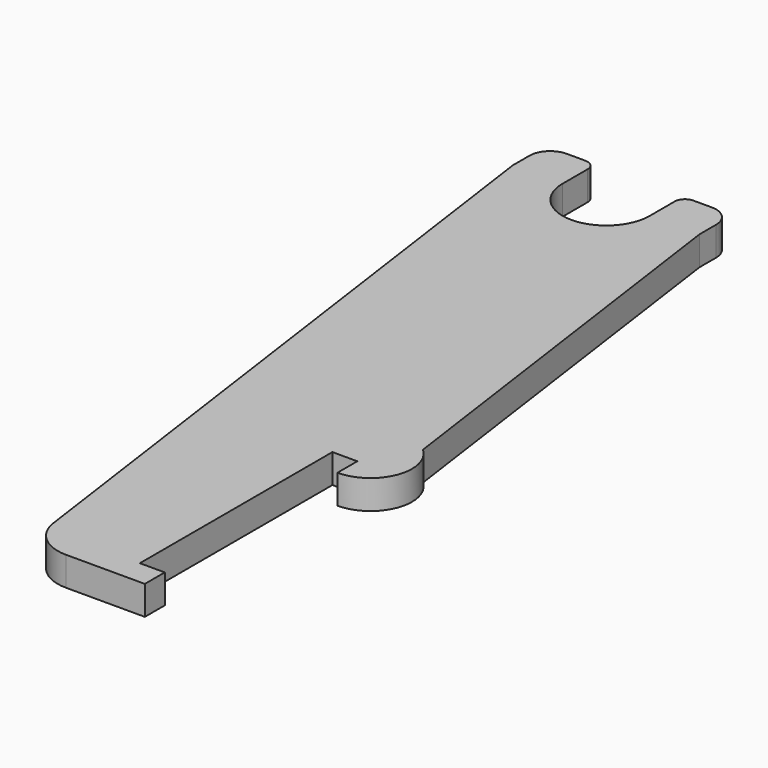
from build123d import *

# Parameters (mm, degrees)
F1_DEPTH = 7


with BuildPart() as f1:
    # F0 (on Top) → F1 (new body)
    with BuildSketch(Plane.XY):
        with BuildLine():
            Line((9.941509, 5.139797), (9.941509, -0.860203))
            ThreePointArc((9.941509, -0.860203), (19.251718, 5.547945), (16.639965, 16.544449))
            Line((16.639965, 16.544449), (2.441509, 117.60757))
            Line((2.441509, 117.60757), (2.441509, 122.60757))
            ThreePointArc((2.441509, 122.60757), (0.977043, 126.143104), (-2.558491, 127.60757))
            Line((-2.558491, 127.60757), (-7.058491, 127.60757))
            ThreePointArc((-7.058491, 127.60757), (-8.826258, 126.875337), (-9.558491, 125.10757))
            Line((-9.558491, 125.10757), (-9.558491, 117.60757))
            ThreePointArc((-9.558491, 117.60757), (-20.058491, 107.10757), (-30.558491, 117.60757))
            Line((-30.558491, 117.60757), (-30.558491, 125.10757))
            ThreePointArc((-30.558491, 125.10757), (-31.290724, 126.875337), (-33.058491, 127.60757))
            Line((-33.058491, 127.60757), (-37.558491, 127.60757))
            ThreePointArc((-37.558491, 127.60757), (-41.094025, 126.143104), (-42.558491, 122.60757))
            Line((-42.558491, 122.60757), (-42.558491, 117.60757))
            Line((-42.558491, 117.60757), (-18.975815, -50.25145))
            ThreePointArc((-18.975815, -50.25145), (-15.633841, -56.407138), (-9.073066, -58.860203))
            Line((-9.073066, -58.860203), (9.941509, -58.860203))
            Line((9.941509, -58.860203), (9.941509, -52.860203))
            Line((9.941509, -52.860203), (3.941509, -52.860203))
            Line((3.941509, -52.860203), (3.941509, 5.139797))
            Line((3.941509, 5.139797), (9.941509, 5.139797))
        make_face()
    extrude(amount=F1_DEPTH)


solid = f1.part
